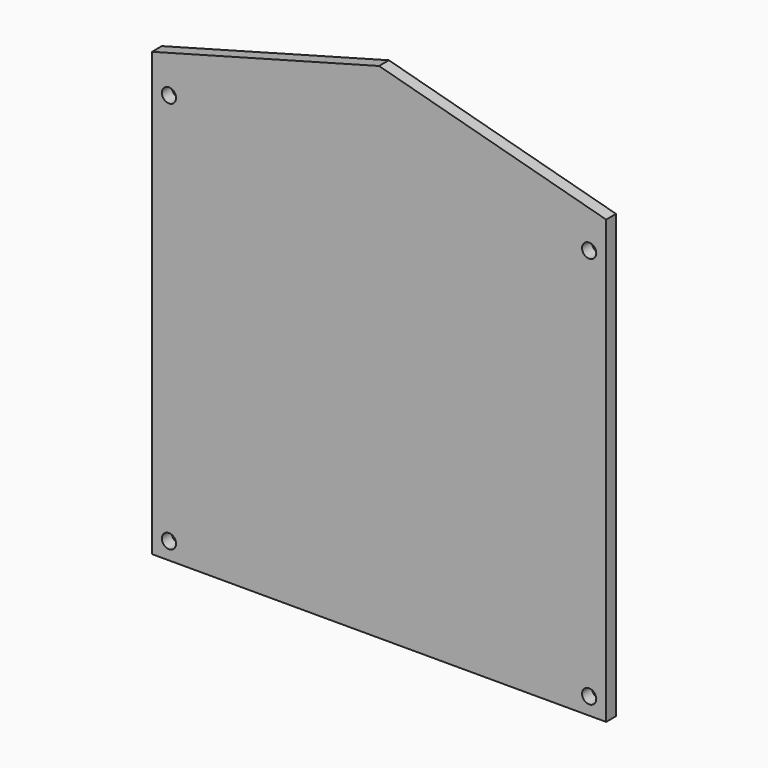
from build123d import *

# Parameters (mm, degrees)
PAD_DEPTH    = 4
SKETCH001_R  = 2.3
POCKET_DEPTH = 5
SKETCH002_R  = 5
PAD001_DEPTH = 10


with BuildPart() as part:
    # Sketch → Pad (new body)
    with BuildSketch(Plane.XZ):
        Polygon((0, 0), (147, 0), (147, 143.135135), (73.5, 163), (0, 143.135135), align=None)
    extrude(amount=PAD_DEPTH)

    # Sketch001 (on Face7 of Pad) → Pocket (cut)
    with BuildSketch(Plane.XZ.offset(4)):
        with Locations((5.5, 5.5)):
            Circle(SKETCH001_R)
        with Locations((141.5, 5.5)):
            Circle(SKETCH001_R)
        with Locations((141.5, 132.5)):
            Circle(SKETCH001_R)
        with Locations((5.5, 132.5)):
            Circle(SKETCH001_R)
    extrude(amount=-POCKET_DEPTH, mode=Mode.SUBTRACT)

    # Sketch002 (on Face4 of Pocket) → Pad001 (join)
    with BuildSketch(Plane(origin=(0, 0, 0), x_dir=(1, 0, 0), z_dir=(0, 1, 0))):
        with Locations((73.5, -140)):
            Circle(SKETCH002_R)
    extrude(amount=PAD001_DEPTH)


solid = part.part
